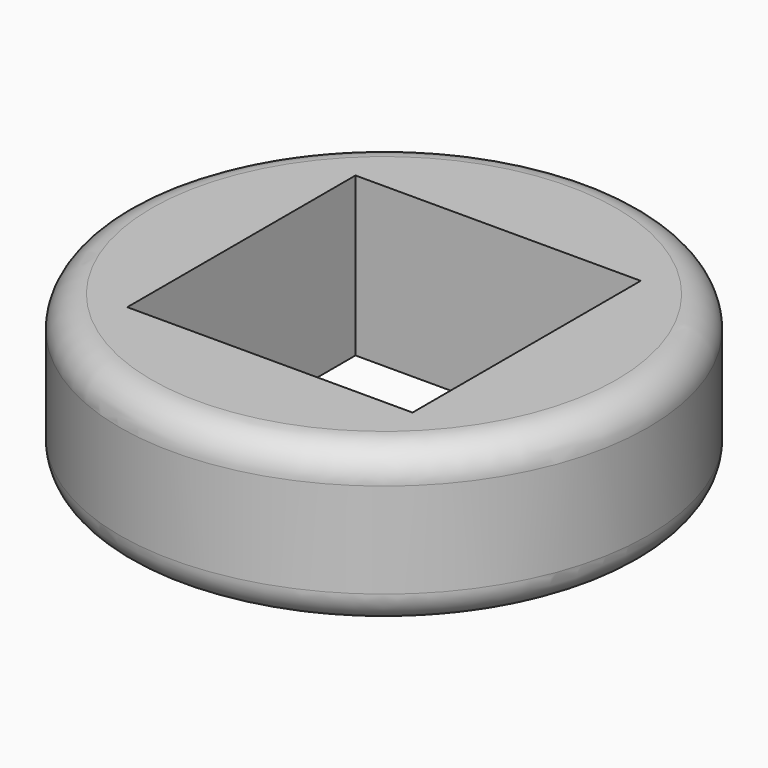
from build123d import *

# Parameters (mm, degrees)
F0_R     = 5
F0_W     = 5.4
F0_H     = 5.4
F1_DEPTH = 3
F2_R     = 0.6


with BuildPart() as f1:
    # F0 (on Top) → F1 (new body)
    with BuildSketch(Plane.XY):
        Circle(F0_R)
        Rectangle(F0_W, F0_H, mode=Mode.SUBTRACT)
    extrude(amount=F1_DEPTH)

    # F2
    f2_edges = [f1.edges().sort_by_distance(p)[0] for p in [
        (5, 0, 1.5),
        (-5, 0, 0),
        (-5, 0, 3),
    ]]
    fillet(f2_edges, radius=F2_R)


solid = f1.part
